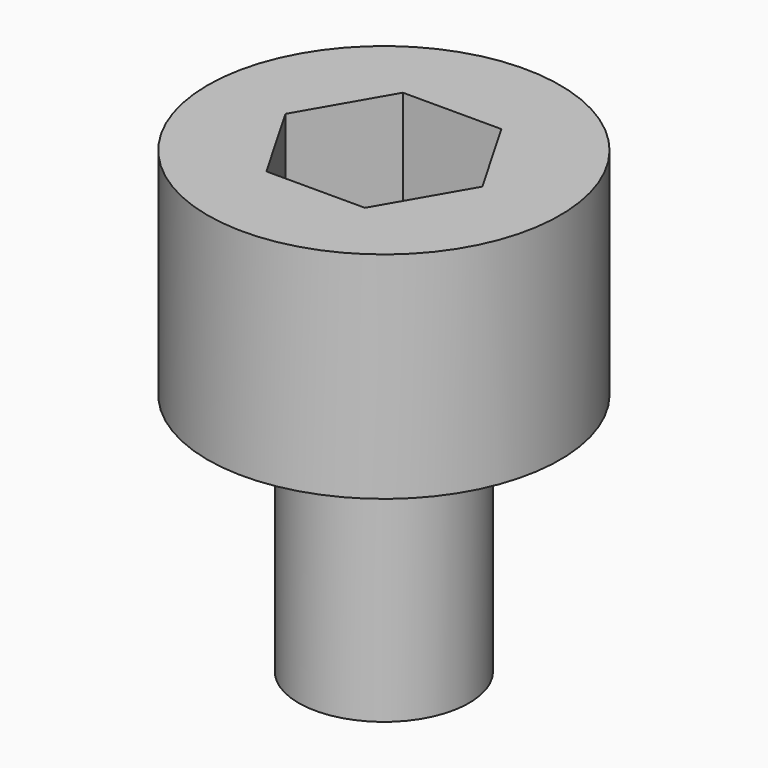
from build123d import *

# Parameters (mm, degrees)
F3_DEPTH = 2.54


with BuildPart() as f1:
    # F0 (on Front) → F1 (revolve)
    with BuildSketch(Plane.XZ):
        Polygon((0, -7.47395), (0, 0), (-2.8702, 0), (-2.8702, -3.5052), (-1.389063, -3.5052), (-1.389063, -7.47395), align=None)
    revolve(axis=Axis((0, 0, -3.736975), (0, 0, -1)))

    # F2 (on face) → F3 (cut)
    with BuildSketch(Plane.XY):
        Polygon((0.801976, 1.389063), (-0.801976, 1.389063), (-1.603951, 0), (-0.801976, -1.389063), (0.801976, -1.389062), (1.603951, 0), align=None)
    extrude(amount=-F3_DEPTH, mode=Mode.SUBTRACT)


solid = f1.part
